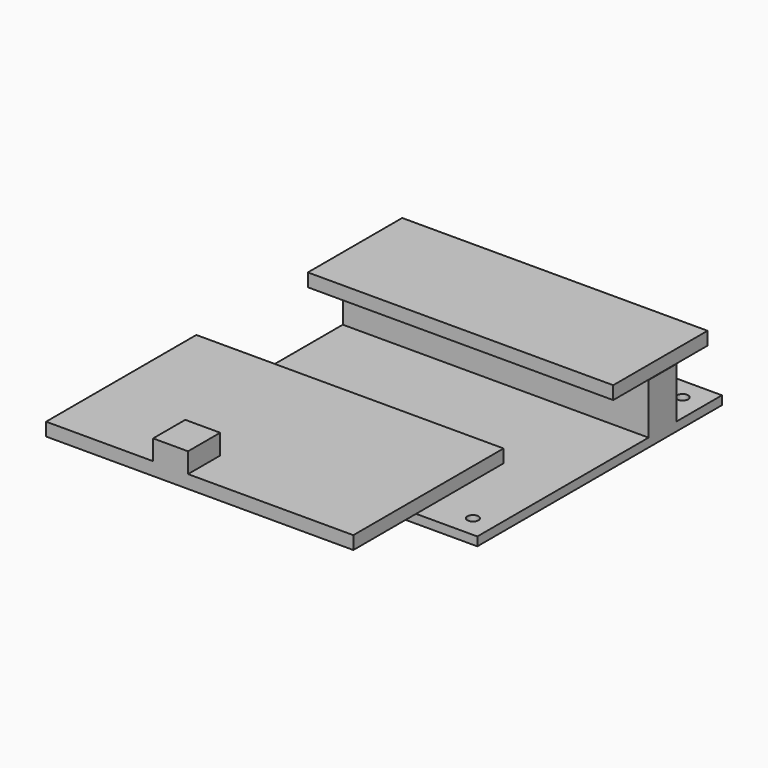
from build123d import *

# Parameters (mm, degrees)
F0_W      = 70
F0_H      = 70
F1_DEPTH  = 2
F3_D      = 2.54
F4_W      = 70
F4_H      = 8
F5_DEPTH  = 11.6
F6_W      = 69.909066
F6_H      = 27
F7_DEPTH  = 3
F8_W      = 20
F8_H      = 7
F9_DEPTH  = 12
F10_W     = 70.34298
F10_H     = 43
F11_DEPTH = 3
F12_W     = 8
F12_H     = 9.2
F13_DEPTH = 4.6


with BuildPart() as f1:
    # F0 (on Top) → F1 (new body)
    with BuildSketch(Plane.XY):
        Rectangle(F0_W, F0_H)
    extrude(amount=F1_DEPTH)

    # F3 (through all)
    with Locations(Plane(origin=(0, 0, 0), x_dir=(1, 0, 0), z_dir=(0, 0, -1))):
        with Locations((-30, 30), (30, 30), (-30, -30), (30, -30)):
            Hole(F3_D / 2)

    # F4 (on face) → F5 (join)
    with BuildSketch(Plane.XY.offset(2)):
        with Locations((0, 18)):
            Rectangle(F4_W, F4_H)
    extrude(amount=F5_DEPTH)

    # F6 (on face) → F7 (join)
    with BuildSketch(Plane.XY.offset(13.6)):
        with Locations((-0.045467, 17.5)):
            Rectangle(F6_W, F6_H)
    extrude(amount=F7_DEPTH)

    # F8 (on face) → F9 (join)
    with BuildSketch(Plane.XY.offset(2)):
        with Locations((0, -31.5)):
            Rectangle(F8_W, F8_H)
    extrude(amount=F9_DEPTH)

    # F10 (on face) → F11 (join)
    with BuildSketch(Plane.XY.offset(14)):
        with Locations((0.205681, -49.460026)):
            Rectangle(F10_W, F10_H)
    extrude(amount=F11_DEPTH)

    # F12 (on face) → F13 (join)
    with BuildSketch(Plane.XY.offset(17)):
        with Locations((-6.465809, -66.360026)):
            Rectangle(F12_W, F12_H)
    extrude(amount=F13_DEPTH)


solid = f1.part
